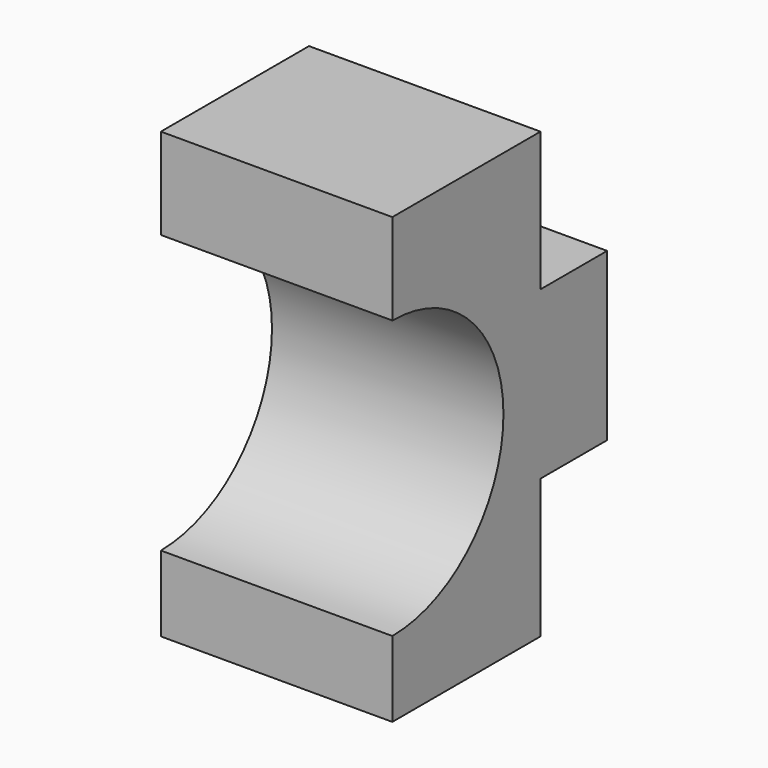
from build123d import *

# Parameters (mm, degrees)
F1_DEPTH = 25


with BuildPart() as f1:
    # F0 (on Right) → F1 (new body)
    with BuildSketch(Plane.YZ):
        with BuildLine():
            ThreePointArc((0, 15), (15, 0), (0, -15))
            Line((0, -15), (0, -23.168363))
            Line((0, -23.168363), (20, -23.168363))
            Line((20, -23.168363), (20, -8.168363))
            Line((20, -8.168363), (29, -8.168363))
            Line((29, -8.168363), (29, 9.831637))
            Line((29, 9.831637), (20, 9.831637))
            Line((20, 9.831637), (20, 24.831637))
            Line((20, 24.831637), (0, 24.831637))
            Line((0, 24.831637), (0, 15))
        make_face()
    extrude(amount=F1_DEPTH)


solid = f1.part
